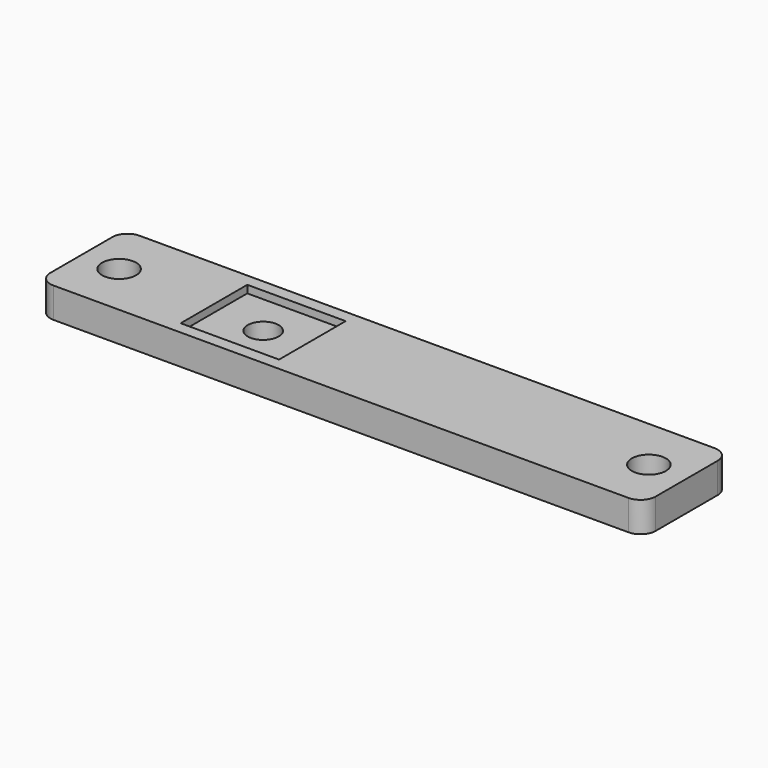
from build123d import *

# Parameters (mm, degrees)
F0_R     = 2.25
F1_DEPTH = 4
F2_R     = 2.05
F3_DEPTH = 5
F4_W     = 13
F4_H     = 11
F5_DEPTH = 1


with BuildPart() as f1:
    # F0 (on Top) → F1 (new body)
    with BuildSketch(Plane.XY):
        with BuildLine():
            ThreePointArc((40, 5.119438), (39.414214, 6.533651), (38, 7.119438))
            Line((38, 7.119438), (-38, 7.119438))
            ThreePointArc((-38, 7.119438), (-39.414214, 6.533651), (-40, 5.119438))
            Line((-40, 5.119438), (-40, -5.119438))
            ThreePointArc((-40, -5.119438), (-39.414214, -6.533651), (-38, -7.119438))
            Line((-38, -7.119438), (38, -7.119438))
            ThreePointArc((38, -7.119438), (39.414214, -6.533651), (40, -5.119438))
            Line((40, -5.119438), (40, 5.119438))
        make_face()
        with Locations((-35, 0)):
            Circle(F0_R, mode=Mode.SUBTRACT)
        with Locations((35, 0)):
            Circle(F0_R, mode=Mode.SUBTRACT)
    extrude(amount=F1_DEPTH)

    # F2 (on face) → F3 (cut)
    with BuildSketch(Plane.XY.offset(4)):
        with Locations((-15.9661, 0)):
            Circle(F2_R)
    extrude(amount=-F3_DEPTH, mode=Mode.SUBTRACT)

    # F4 (on face) → F5 (cut)
    with BuildSketch(Plane.XY.offset(4)):
        with Locations((-15.9661, 0)):
            Rectangle(F4_W, F4_H)
    extrude(amount=-F5_DEPTH, mode=Mode.SUBTRACT)


solid = f1.part
